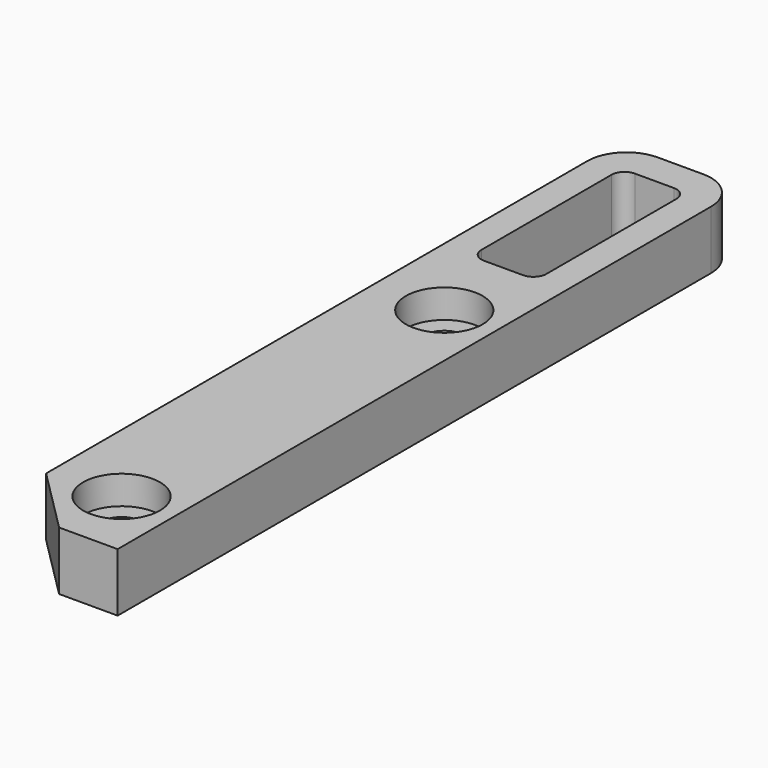
from build123d import *

# Parameters (mm, degrees)
F0_W           = 9.5
F0_H           = 60
F1_DEPTH       = 4.5
F4_D           = 3.1
F4_CBORE_D     = 5.9
F4_CBORE_DEPTH = 2.2
F5_DEPTH       = 25
F6_SIZE        = 5
F7_R           = 3


with BuildPart() as f1:
    # F0 (on Top) → F1 (new body)
    with BuildSketch(Plane.XY):
        with Locations((4.75, 30)):
            Rectangle(F0_W, F0_H)
    extrude(amount=F1_DEPTH)

    # F4 (through all)
    with Locations(Plane.XY.offset(4.5)):
        with Locations((5.4, 36.5), (5.4, 5.5)):
            CounterBoreHole(F4_D / 2, F4_CBORE_D / 2, F4_CBORE_DEPTH)

    # F3 (on face) → F5 (cut)
    with BuildSketch(Plane.XY.offset(4.5)):
        with BuildLine():
            Line((6.25, 57.5), (3.25, 57.5))
            ThreePointArc((3.25, 57.5), (2.542893, 57.207107), (2.25, 56.5))
            Line((2.25, 56.5), (2.25, 44))
            ThreePointArc((2.25, 44), (2.542893, 43.292893), (3.25, 43))
            Line((3.25, 43), (6.25, 43))
            ThreePointArc((6.25, 43), (6.957107, 43.292893), (7.25, 44))
            Line((7.25, 44), (7.25, 56.5))
            ThreePointArc((7.25, 56.5), (6.957107, 57.207107), (6.25, 57.5))
        make_face()
    extrude(amount=-F5_DEPTH, mode=Mode.SUBTRACT)

    # F6
    f6_edges = [f1.edges().sort_by_distance(p)[0] for p in [
        (0, 0, 2.25),
    ]]
    chamfer(f6_edges, length=F6_SIZE)

    # F7
    f7_edges = [f1.edges().sort_by_distance(p)[0] for p in [
        (0, 60, 2.25),
        (9.5, 60, 2.25),
    ]]
    fillet(f7_edges, radius=F7_R)


solid = f1.part
